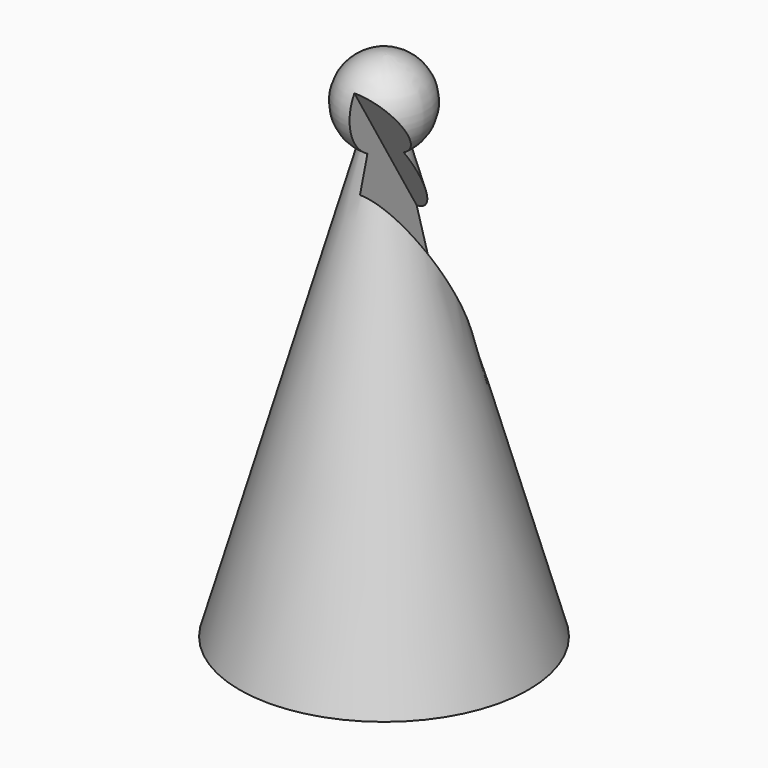
from build123d import *

# Parameters (mm, degrees)
F3_DEPTH = 10.910927


with BuildPart() as f1:
    # F0 (on Right) → F1 (revolve)
    with BuildSketch(Plane.YZ):
        with BuildLine():
            ThreePointArc((1.563042, 52.476648), (0.806746, 52.177996), (0, 52.076326))
            Line((0, 52.076326), (0, 19.737766))
            Line((0, 19.737766), (10.909927, 19.737766))
            Line((10.909927, 19.737766), (1.563042, 52.476648))
        make_face()
        with BuildLine():
            Line((0, 55.327907), (0, 52.076326))
            ThreePointArc((0, 52.076326), (0.806746, 52.177996), (1.563042, 52.476648))
            ThreePointArc((1.563042, 52.476648), (3.149911, 56.134654), (0, 58.579488))
            Line((0, 58.579488), (0, 55.327907))
        make_face()
    revolve(axis=Axis((0, 0, 62.526066), (0, 0, 1)))

    # F2 (on Right) → F3 (cut, through all)
    with BuildSketch(Plane.YZ):
        Polygon((15.644476, 26.147785), (-6.619644, 63.391408), (-9.421702, 61.995171), (11.145549, 27.524987), align=None)
    extrude(amount=F3_DEPTH, mode=Mode.SUBTRACT)


solid = f1.part
